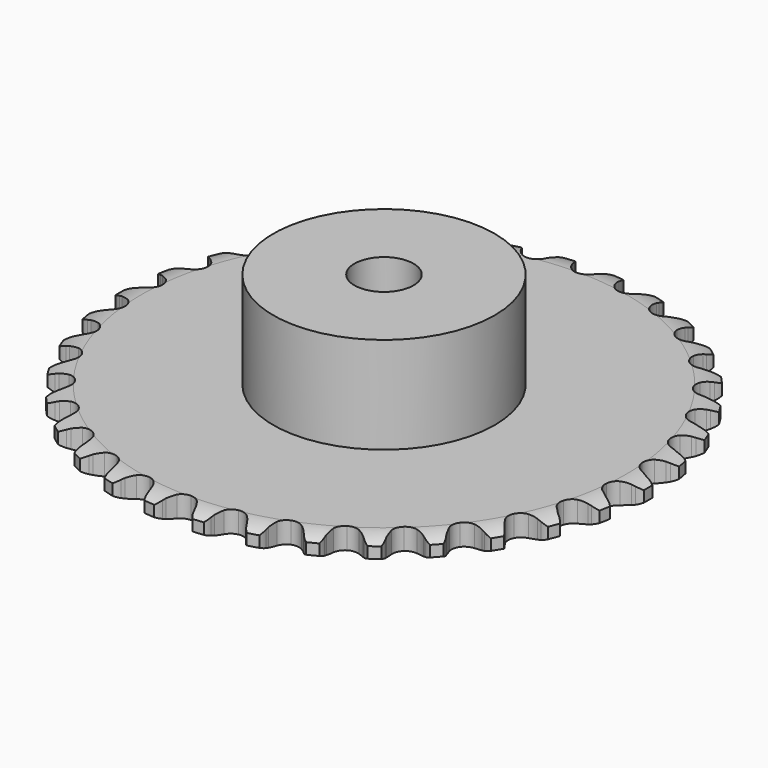
from build123d import *

# Parameters (mm, degrees)
PAD_DEPTH         = 2.9
SKETCH001_R       = 15
PAD001_DEPTH      = 16
SKETCH002_R       = 4
POCKET_DEPTH      = 0.0010001
POCKET_DEPTH_BACK = 16.001


with BuildPart() as part:
    # Sprocket → Pad (new body)
    with BuildSketch(Plane.XY):
        with BuildLine():
            ThreePointArc((-3.3671839727, 36.3377021001), (-2.6066536566, 35.7405925306), (-2.1101586415, 34.9108703484))
            Line((-2.1101586415, 34.9108703484), (-1.9491677306, 34.4782507506))
            ThreePointArc((-1.9491677306, 34.4782507506), (-1.6927630481, 33.9156220248), (-1.3589463526, 33.3951790807))
            ThreePointArc((-1.3589463526, 33.3951790807), (-0.7600232655, 32.8939313207), (0, 32.7141458457))
            ThreePointArc((0, 32.7141458457), (0.7600232655, 32.8939313207), (1.3589463526, 33.3951790807))
            ThreePointArc((1.3589463526, 33.3951790807), (1.6927630481, 33.9156220248), (1.9491677306, 34.4782507506))
            Line((1.9491677306, 34.4782507506), (2.1101586415, 34.9108703484))
            ThreePointArc((2.1101586415, 34.9108703484), (2.6066536566, 35.7405925306), (3.3671839727, 36.3377021001))
            ThreePointArc((3.3671839727, 36.3377021001), (4.0050462193, 35.6110123768), (4.3406264124, 34.7041870719))
            Line((4.3406264124, 34.7041870719), (4.4193825047, 34.2493516427))
            ThreePointArc((4.4193825047, 34.2493516427), (4.5680386531, 33.6491885033), (4.800540345, 33.0762684324))
            ThreePointArc((4.800540345, 33.0762684324), (5.2971615942, 32.4735035397), (6.0112085249, 32.1571253454))
            ThreePointArc((6.0112085249, 32.1571253454), (6.7913264444, 32.1941957225), (7.472155762, 32.5768569584))
            Line((7.472155762, 32.5768569584), (8.2513413965, 33.5330343814))
            ThreePointArc((8.2513413965, 33.5330343814), (8.3649444592, 33.7340358036), (8.4890847737, 33.9287058062))
            ThreePointArc((8.4890847737, 33.9287058062), (9.1295870686, 34.6530696718), (9.9868865063, 35.1002652374))
            ThreePointArc((9.9868865063, 35.1002652374), (10.4803590498, 34.2687419073), (10.6435966399, 33.3156943278))
            Line((10.6435966399, 33.3156943278), (10.6374359692, 32.8541319421))
            ThreePointArc((10.6374359692, 32.8541319421), (10.6732812767, 32.2368722251), (10.7965503987, 31.6309851334))
            ThreePointArc((10.7965503987, 31.6309851334), (11.173957969, 30.9472295433), (11.8177125532, 30.5050325098))
            ThreePointArc((11.8177125532, 30.5050325098), (12.5913591465, 30.3981254017), (13.3309098687, 30.649169044))
            Line((13.3309098687, 30.649169044), (14.2725255276, 31.4458907447))
            ThreePointArc((14.2725255276, 31.4458907447), (14.4211281966, 31.6225952278), (14.5789253055, 31.7911398807))
            ThreePointArc((14.5789253055, 31.7911398807), (15.3416233428, 32.3854780871), (16.2664975979, 32.6675309401))
            ThreePointArc((16.2664975979, 32.6675309401), (16.5987758226, 31.759490533), (16.5841119493, 30.7926755711))
            Line((16.5841119493, 30.7926755711), (16.4932443099, 30.3401041824))
            ThreePointArc((16.4932443099, 30.3401041824), (16.4150581076, 29.7267679271), (16.4248968776, 29.1085465727))
            ThreePointArc((16.4248968776, 29.1085465727), (16.6702386068, 28.3670847619), (17.2217785542, 27.8141273788))
            ThreePointArc((17.2217785542, 27.8141273788), (17.9626082146, 27.5668833789), (18.7356958286, 27.6777604375))
            Line((18.7356958286, 27.6777604375), (19.8076759198, 28.2878950139))
            ThreePointArc((19.8076759198, 28.2878950139), (19.9862177096, 28.4342850986), (20.1722980216, 28.5709648158))
            ThreePointArc((20.1722980216, 28.5709648158), (21.0312190342, 29.0150378883), (21.9921726233, 29.122343057))
            ThreePointArc((21.9921726233, 29.122343057), (22.1519411928, 28.1687077998), (21.9598752168, 27.2210491796))
            Line((21.9598752168, 27.2210491796), (21.7873949972, 26.7928805637))
            ThreePointArc((21.7873949972, 26.7928805637), (21.5978398224, 26.2043542006), (21.4939131929, 25.5948513705))
            ThreePointArc((21.4939131929, 25.5948513705), (21.5988342627, 24.8209329315), (22.0393775419, 24.1760454992))
            ThreePointArc((22.0393775419, 24.1760454992), (22.7221622037, 23.7968842054), (23.502460138, 23.7638188951))
            Line((23.502460138, 23.7638188951), (24.6682996653, 24.1665889461))
            ThreePointArc((24.6682996653, 24.1665889461), (24.8707005493, 24.2776794936), (25.0787273225, 24.3778398112))
            ThreePointArc((25.0787273225, 24.3778398112), (26.0046217856, 24.6565253739), (26.9689305867, 24.5854287096))
            ThreePointArc((26.9689305867, 24.5854287096), (26.9507487741, 23.6186735072), (26.5878212718, 22.7224426063))
            Line((26.5878212718, 22.7224426063), (26.3396020789, 22.333257532))
            ThreePointArc((26.3396020789, 22.333257532), (26.0451330057, 21.7895826206), (25.8309800734, 21.2095542024))
            ThreePointArc((25.8309800734, 21.2095542024), (25.7919075227, 20.4295339995), (26.1064519606, 19.7146773862))
            ThreePointArc((26.1064519606, 19.7146773862), (26.7079402111, 19.2165106816), (27.4688763555, 19.0406290018))
            Line((27.4688763555, 19.0406290018), (28.688874052, 19.2223186762))
            ThreePointArc((28.688874052, 19.2223186762), (28.9082415109, 19.2943266312), (29.131130643, 19.3545567099))
            ThreePointArc((29.131130643, 19.3545567099), (30.0924683311, 19.4583644601), (31.0272939647, 19.2112870744))
            ThreePointArc((31.0272939647, 19.2112870744), (30.8317809297, 18.2643336158), (30.3103509619, 17.4500505026))
            Line((30.3103509619, 17.4500505026), (29.9948456027, 17.1131022007))
            ThreePointArc((29.9948456027, 17.1131022007), (29.6054904223, 16.6327929381), (29.2884039084, 16.101991104))
            ThreePointArc((29.2884039084, 16.101991104), (29.1066683059, 15.3424317897), (29.2845024691, 14.5819495799))
            ThreePointArc((29.2845024691, 14.5819495799), (29.7842113474, 13.9817419341), (30.499872934, 13.6690333245))
            Line((30.499872934, 13.6690333245), (31.7324832415, 13.6234553985))
            ThreePointArc((31.7324832415, 13.6234553985), (31.9613469795, 13.6539286165), (32.1915082485, 13.672177393))
            ThreePointArc((32.1915082485, 13.672177393), (33.1555519596, 13.5975722824), (34.0290600598, 13.1829280992))
            ThreePointArc((34.0290600598, 13.1829280992), (33.6628737643, 12.2880237487), (33.0006980032, 11.5834178581))
            Line((33.0006980032, 11.5834178581), (32.6286506344, 11.310180699))
            ThreePointArc((32.6286506344, 11.310180699), (32.1576683704, 10.9095934409), (31.7484462759, 10.4460940108))
            ThreePointArc((31.7484462759, 10.4460940108), (31.4302364097, 9.7328614666), (31.4653043689, 8.9526509698))
            ThreePointArc((31.4653043689, 8.9526509698), (31.8462168884, 8.2708417343), (32.4922329203, 7.8319551116))
            Line((32.4922329203, 7.8319551116), (33.695480773, 7.5606616868))
            ThreePointArc((33.695480773, 7.5606616868), (33.9260471101, 7.5485624388), (34.15564265, 7.524208473))
            ThreePointArc((34.15564265, 7.524208473), (35.0895630319, 7.273731089), (35.8720073279, 6.7056403189))
            ThreePointArc((35.8720073279, 6.7056403189), (35.3476178071, 5.8932599707), (34.5672458541, 5.3223258112))
            Line((34.5672458541, 5.3223258112), (34.1513261025, 5.1221045586))
            ThreePointArc((34.1513261025, 5.1221045586), (33.614755491, 4.8148808238), (33.1273333835, 4.4344677148))
            ThreePointArc((33.1273333835, 4.4344677148), (32.6834855089, 3.7918502195), (32.5745930668, 3.0184805684))
            ThreePointArc((32.5745930668, 3.0184805684), (32.8237377086, 2.278287939), (33.3781088846, 1.7281690608))
            Line((33.3781088846, 1.7281690608), (34.5110191201, 1.2403987093))
            ThreePointArc((34.5110191201, 1.2403987093), (34.7354363961, 1.1861390207), (34.9566476062, 1.1200116577))
            ThreePointArc((34.9566476062, 1.1200116577), (35.8286411203, 0.7021917074), (36.4933764103, 0))
            ThreePointArc((36.4933764103, 0), (35.8286411203, -0.7021917074), (34.9566476062, -1.1200116577))
            Line((34.9566476062, -1.1200116577), (34.5110191201, -1.2403987093))
            ThreePointArc((34.5110191201, -1.2403987093), (33.9271324298, -1.443796785), (33.3781088846, -1.7281690608))
            ThreePointArc((33.3781088846, -1.7281690608), (32.8237377086, -2.278287939), (32.5745930668, -3.0184805684))
            ThreePointArc((32.5745930668, -3.0184805684), (32.6834855089, -3.7918502195), (33.1273333835, -4.4344677148))
            Line((33.1273333835, -4.4344677148), (34.1513261025, -5.1221045586))
            ThreePointArc((34.1513261025, -5.1221045586), (34.3619520563, -5.2166769391), (34.5672458541, -5.3223258112))
            ThreePointArc((34.5672458541, -5.3223258112), (35.3476178071, -5.8932599707), (35.8720073279, -6.7056403189))
            ThreePointArc((35.8720073279, -6.7056403189), (35.0895630319, -7.273731089), (34.15564265, -7.524208473))
            Line((34.15564265, -7.524208473), (33.695480773, -7.5606616868))
            ThreePointArc((33.695480773, -7.5606616868), (33.0841615648, -7.653307626), (32.4922329203, -7.8319551116))
            ThreePointArc((32.4922329203, -7.8319551116), (31.8462168884, -8.2708417343), (31.4653043689, -8.9526509698))
            ThreePointArc((31.4653043689, -8.9526509698), (31.4302364097, -9.7328614666), (31.7484462759, -10.4460940108))
            Line((31.7484462759, -10.4460940108), (32.6286506344, -11.310180699))
            ThreePointArc((32.6286506344, -11.310180699), (32.8183126518, -11.4418452225), (33.0006980032, -11.5834178581))
            ThreePointArc((33.0006980032, -11.5834178581), (33.6628737643, -12.2880237487), (34.0290600598, -13.1829280992))
            ThreePointArc((34.0290600598, -13.1829280992), (33.1555519596, -13.5975722824), (32.1915082485, -13.672177393))
            Line((32.1915082485, -13.672177393), (31.7324832415, -13.6234553985))
            ThreePointArc((31.7324832415, -13.6234553985), (31.1145492578, -13.6021942549), (30.499872934, -13.6690333245))
            ThreePointArc((30.499872934, -13.6690333245), (29.7842113474, -13.9817419341), (29.2845024691, -14.5819495799))
            ThreePointArc((29.2845024691, -14.5819495799), (29.1066683059, -15.3424317897), (29.2884039084, -16.101991104))
            Line((29.2884039084, -16.101991104), (29.9948456027, -17.1131022007))
            ThreePointArc((29.9948456027, -17.1131022007), (30.1570849712, -17.2773751898), (30.3103509619, -17.4500505026))
            ThreePointArc((30.3103509619, -17.4500505026), (30.8317809297, -18.2643336158), (31.0272939647, -19.2112870744))
            ThreePointArc((31.0272939647, -19.2112870744), (30.0924683311, -19.4583644601), (29.131130643, -19.3545567099))
            Line((29.131130643, -19.3545567099), (28.688874052, -19.2223186762))
            ThreePointArc((28.688874052, -19.2223186762), (28.0853682937, -19.0878744724), (27.4688763555, -19.0406290018))
            ThreePointArc((27.4688763555, -19.0406290018), (26.7079402111, -19.2165106816), (26.1064519606, -19.7146773862))
            ThreePointArc((26.1064519606, -19.7146773862), (25.7919075227, -20.4295339995), (25.8309800734, -21.2095542024))
            Line((25.8309800734, -21.2095542024), (26.3396020789, -22.333257532))
            ThreePointArc((26.3396020789, -22.333257532), (26.4688939313, -22.5245448669), (26.5878212718, -22.7224426063))
            ThreePointArc((26.5878212718, -22.7224426063), (26.9507487741, -23.6186735072), (26.9689305867, -24.5854287096))
            ThreePointArc((26.9689305867, -24.5854287096), (26.0046217856, -24.6565253739), (25.0787273225, -24.3778398112))
            Line((25.0787273225, -24.3778398112), (24.6682996653, -24.1665889461))
            ThreePointArc((24.6682996653, -24.1665889461), (24.099773797, -23.9235400182), (23.502460138, -23.7638188951))
            ThreePointArc((23.502460138, -23.7638188951), (22.7221622037, -23.7968842054), (22.0393775419, -24.1760454992))
            ThreePointArc((22.0393775419, -24.1760454992), (21.5988342627, -24.8209329315), (21.4939131929, -25.5948513705))
            Line((21.4939131929, -25.5948513705), (21.7873949972, -26.7928805637))
            ThreePointArc((21.7873949972, -26.7928805637), (21.8793364545, -27.0046681838), (21.9598752168, -27.2210491796))
            ThreePointArc((21.9598752168, -27.2210491796), (22.1519411928, -28.1687077998), (21.9921726233, -29.122343057))
            ThreePointArc((21.9921726233, -29.122343057), (21.0312190342, -29.0150378883), (20.1722980216, -28.5709648158))
            Line((20.1722980216, -28.5709648158), (19.8076759198, -28.2878950139))
            ThreePointArc((19.8076759198, -28.2878950139), (19.2934904081, -27.9445181018), (18.7356958286, -27.6777604375))
            ThreePointArc((18.7356958286, -27.6777604375), (17.9626082146, -27.5668833789), (17.2217785542, -27.8141273788))
            ThreePointArc((17.2217785542, -27.8141273788), (16.6702386068, -28.3670847619), (16.4248968776, -29.1085465727))
            Line((16.4248968776, -29.1085465727), (16.4932443099, -30.3401041824))
            ThreePointArc((16.4932443099, -30.3401041824), (16.5447044161, -30.5651799142), (16.5841119493, -30.7926755711))
            ThreePointArc((16.5841119493, -30.7926755711), (16.5987758226, -31.759490533), (16.2664975979, -32.6675309401))
            ThreePointArc((16.2664975979, -32.6675309401), (15.3416233428, -32.3854780871), (14.5789253055, -31.7911398807))
            Line((14.5789253055, -31.7911398807), (14.2725255276, -31.4458907447))
            ThreePointArc((14.2725255276, -31.4458907447), (13.8301903433, -31.0138791371), (13.3309098687, -30.649169044))
            ThreePointArc((13.3309098687, -30.649169044), (12.5913591465, -30.3981254017), (11.8177125532, -30.5050325098))
            ThreePointArc((11.8177125532, -30.5050325098), (11.173957969, -30.9472295433), (10.7965503987, -31.6309851334))
            Line((10.7965503987, -31.6309851334), (10.6374359692, -32.8541319421))
            ThreePointArc((10.6374359692, -32.8541319421), (10.6466623121, -33.0848311016), (10.6435966399, -33.3156943278))
            ThreePointArc((10.6435966399, -33.3156943278), (10.4803590498, -34.2687419073), (9.9868865063, -35.1002652374))
            ThreePointArc((9.9868865063, -35.1002652374), (9.1295870686, -34.6530696718), (8.4890847737, -33.9287058062))
            Line((8.4890847737, -33.9287058062), (8.2513413965, -33.5330343814))
            ThreePointArc((8.2513413965, -33.5330343814), (7.8959197339, -33.0270997156), (7.472155762, -32.5768569584))
            ThreePointArc((7.472155762, -32.5768569584), (6.7913264444, -32.1941957225), (6.0112085249, -32.1571253454))
            ThreePointArc((6.0112085249, -32.1571253454), (5.2971615942, -32.4735035397), (4.800540345, -33.0762684324))
            Line((4.800540345, -33.0762684324), (4.4193825047, -34.2493516427))
            ThreePointArc((4.4193825047, -34.2493516427), (4.3860608922, -34.4778180466), (4.3406264124, -34.7041870719))
            ThreePointArc((4.3406264124, -34.7041870719), (4.0050462193, -35.6110123768), (3.3671839727, -36.3377021001))
            ThreePointArc((3.3671839727, -36.3377021001), (2.6066536566, -35.7405925306), (2.1101586415, -34.9108703484))
            Line((2.1101586415, -34.9108703484), (1.9491677306, -34.4782507506))
            ThreePointArc((1.9491677306, -34.4782507506), (1.6927630481, -33.9156220248), (1.3589463526, -33.3951790807))
            ThreePointArc((1.3589463526, -33.3951790807), (0.7600232655, -32.8939313207), (0, -32.7141458457))
            ThreePointArc((0, -32.7141458457), (-0.7600232655, -32.8939313207), (-1.3589463526, -33.3951790807))
            Line((-1.3589463526, -33.3951790807), (-1.9491677306, -34.4782507506))
            ThreePointArc((-1.9491677306, -34.4782507506), (-2.0239025708, -34.6967042497), (-2.1101586415, -34.9108703484))
            ThreePointArc((-2.1101586415, -34.9108703484), (-2.6066536566, -35.7405925306), (-3.3671839727, -36.3377021001))
            ThreePointArc((-3.3671839727, -36.3377021001), (-4.0050462193, -35.6110123768), (-4.3406264124, -34.7041870719))
            Line((-4.3406264124, -34.7041870719), (-4.4193825047, -34.2493516427))
            ThreePointArc((-4.4193825047, -34.2493516427), (-4.5680386531, -33.6491885033), (-4.800540345, -33.0762684324))
            ThreePointArc((-4.800540345, -33.0762684324), (-5.2971615942, -32.4735035397), (-6.0112085249, -32.1571253454))
            ThreePointArc((-6.0112085249, -32.1571253454), (-6.7913264444, -32.1941957225), (-7.472155762, -32.5768569584))
            Line((-7.472155762, -32.5768569584), (-8.2513413965, -33.5330343814))
            ThreePointArc((-8.2513413965, -33.5330343814), (-8.3649444592, -33.7340358036), (-8.4890847737, -33.9287058062))
            ThreePointArc((-8.4890847737, -33.9287058062), (-9.1295870686, -34.6530696718), (-9.9868865063, -35.1002652374))
            ThreePointArc((-9.9868865063, -35.1002652374), (-10.4803590498, -34.2687419073), (-10.6435966399, -33.3156943278))
            Line((-10.6435966399, -33.3156943278), (-10.6374359692, -32.8541319421))
            ThreePointArc((-10.6374359692, -32.8541319421), (-10.6732812767, -32.2368722251), (-10.7965503987, -31.6309851334))
            ThreePointArc((-10.7965503987, -31.6309851334), (-11.173957969, -30.9472295433), (-11.8177125532, -30.5050325098))
            ThreePointArc((-11.8177125532, -30.5050325098), (-12.5913591465, -30.3981254017), (-13.3309098687, -30.649169044))
            Line((-13.3309098687, -30.649169044), (-14.2725255276, -31.4458907447))
            ThreePointArc((-14.2725255276, -31.4458907447), (-14.4211281966, -31.6225952278), (-14.5789253055, -31.7911398807))
            ThreePointArc((-14.5789253055, -31.7911398807), (-15.3416233428, -32.3854780871), (-16.2664975979, -32.6675309401))
            ThreePointArc((-16.2664975979, -32.6675309401), (-16.5987758226, -31.759490533), (-16.5841119493, -30.7926755711))
            Line((-16.5841119493, -30.7926755711), (-16.4932443099, -30.3401041824))
            ThreePointArc((-16.4932443099, -30.3401041824), (-16.4150581076, -29.7267679271), (-16.4248968776, -29.1085465727))
            ThreePointArc((-16.4248968776, -29.1085465727), (-16.6702386068, -28.3670847619), (-17.2217785542, -27.8141273788))
            ThreePointArc((-17.2217785542, -27.8141273788), (-17.9626082146, -27.5668833789), (-18.7356958286, -27.6777604375))
            Line((-18.7356958286, -27.6777604375), (-19.8076759198, -28.2878950139))
            ThreePointArc((-19.8076759198, -28.2878950139), (-19.9862177096, -28.4342850986), (-20.1722980216, -28.5709648158))
            ThreePointArc((-20.1722980216, -28.5709648158), (-21.0312190342, -29.0150378883), (-21.9921726233, -29.122343057))
            ThreePointArc((-21.9921726233, -29.122343057), (-22.1519411928, -28.1687077998), (-21.9598752168, -27.2210491796))
            Line((-21.9598752168, -27.2210491796), (-21.7873949972, -26.7928805637))
            ThreePointArc((-21.7873949972, -26.7928805637), (-21.5978398224, -26.2043542006), (-21.4939131929, -25.5948513705))
            ThreePointArc((-21.4939131929, -25.5948513705), (-21.5988342627, -24.8209329315), (-22.0393775419, -24.1760454992))
            ThreePointArc((-22.0393775419, -24.1760454992), (-22.7221622037, -23.7968842054), (-23.502460138, -23.7638188951))
            Line((-23.502460138, -23.7638188951), (-24.6682996653, -24.1665889461))
            ThreePointArc((-24.6682996653, -24.1665889461), (-24.8707005493, -24.2776794936), (-25.0787273225, -24.3778398112))
            ThreePointArc((-25.0787273225, -24.3778398112), (-26.0046217856, -24.6565253739), (-26.9689305867, -24.5854287096))
            ThreePointArc((-26.9689305867, -24.5854287096), (-26.9507487741, -23.6186735072), (-26.5878212718, -22.7224426063))
            Line((-26.5878212718, -22.7224426063), (-26.3396020789, -22.333257532))
            ThreePointArc((-26.3396020789, -22.333257532), (-26.0451330057, -21.7895826206), (-25.8309800734, -21.2095542024))
            ThreePointArc((-25.8309800734, -21.2095542024), (-25.7919075227, -20.4295339995), (-26.1064519606, -19.7146773862))
            ThreePointArc((-26.1064519606, -19.7146773862), (-26.7079402111, -19.2165106816), (-27.4688763555, -19.0406290018))
            Line((-27.4688763555, -19.0406290018), (-28.688874052, -19.2223186762))
            ThreePointArc((-28.688874052, -19.2223186762), (-28.9082415109, -19.2943266312), (-29.131130643, -19.3545567099))
            ThreePointArc((-29.131130643, -19.3545567099), (-30.0924683311, -19.4583644601), (-31.0272939647, -19.2112870744))
            ThreePointArc((-31.0272939647, -19.2112870744), (-30.8317809297, -18.2643336158), (-30.3103509619, -17.4500505026))
            Line((-30.3103509619, -17.4500505026), (-29.9948456027, -17.1131022007))
            ThreePointArc((-29.9948456027, -17.1131022007), (-29.6054904223, -16.6327929381), (-29.2884039084, -16.101991104))
            ThreePointArc((-29.2884039084, -16.101991104), (-29.1066683059, -15.3424317897), (-29.2845024691, -14.5819495799))
            ThreePointArc((-29.2845024691, -14.5819495799), (-29.7842113474, -13.9817419341), (-30.499872934, -13.6690333245))
            Line((-30.499872934, -13.6690333245), (-31.7324832415, -13.6234553985))
            ThreePointArc((-31.7324832415, -13.6234553985), (-31.9613469795, -13.6539286165), (-32.1915082485, -13.672177393))
            ThreePointArc((-32.1915082485, -13.672177393), (-33.1555519596, -13.5975722824), (-34.0290600598, -13.1829280992))
            ThreePointArc((-34.0290600598, -13.1829280992), (-33.6628737643, -12.2880237487), (-33.0006980032, -11.5834178581))
            Line((-33.0006980032, -11.5834178581), (-32.6286506344, -11.310180699))
            ThreePointArc((-32.6286506344, -11.310180699), (-32.1576683704, -10.9095934409), (-31.7484462759, -10.4460940108))
            ThreePointArc((-31.7484462759, -10.4460940108), (-31.4302364097, -9.7328614666), (-31.4653043689, -8.9526509698))
            ThreePointArc((-31.4653043689, -8.9526509698), (-31.8462168884, -8.2708417343), (-32.4922329203, -7.8319551116))
            Line((-32.4922329203, -7.8319551116), (-33.695480773, -7.5606616868))
            ThreePointArc((-33.695480773, -7.5606616868), (-33.9260471101, -7.5485624388), (-34.15564265, -7.524208473))
            ThreePointArc((-34.15564265, -7.524208473), (-35.0895630319, -7.273731089), (-35.8720073279, -6.7056403189))
            ThreePointArc((-35.8720073279, -6.7056403189), (-35.3476178071, -5.8932599707), (-34.5672458541, -5.3223258112))
            Line((-34.5672458541, -5.3223258112), (-34.1513261025, -5.1221045586))
            ThreePointArc((-34.1513261025, -5.1221045586), (-33.614755491, -4.8148808238), (-33.1273333835, -4.4344677148))
            ThreePointArc((-33.1273333835, -4.4344677148), (-32.6834855089, -3.7918502195), (-32.5745930668, -3.0184805684))
            ThreePointArc((-32.5745930668, -3.0184805684), (-32.8237377086, -2.278287939), (-33.3781088846, -1.7281690608))
            Line((-33.3781088846, -1.7281690608), (-34.5110191201, -1.2403987093))
            ThreePointArc((-34.5110191201, -1.2403987093), (-34.7354363961, -1.1861390207), (-34.9566476062, -1.1200116577))
            ThreePointArc((-34.9566476062, -1.1200116577), (-35.8286411203, -0.7021917074), (-36.4933764103, 0))
            ThreePointArc((-36.4933764103, 0), (-35.8286411203, 0.7021917074), (-34.9566476062, 1.1200116577))
            Line((-34.9566476062, 1.1200116577), (-34.5110191201, 1.2403987093))
            ThreePointArc((-34.5110191201, 1.2403987093), (-33.9271324298, 1.443796785), (-33.3781088846, 1.7281690608))
            ThreePointArc((-33.3781088846, 1.7281690608), (-32.8237377086, 2.278287939), (-32.5745930668, 3.0184805684))
            ThreePointArc((-32.5745930668, 3.0184805684), (-32.6834855089, 3.7918502195), (-33.1273333835, 4.4344677148))
            Line((-33.1273333835, 4.4344677148), (-34.1513261025, 5.1221045586))
            ThreePointArc((-34.1513261025, 5.1221045586), (-34.3619520563, 5.2166769391), (-34.5672458541, 5.3223258112))
            ThreePointArc((-34.5672458541, 5.3223258112), (-35.3476178071, 5.8932599707), (-35.8720073279, 6.7056403189))
            ThreePointArc((-35.8720073279, 6.7056403189), (-35.0895630319, 7.273731089), (-34.15564265, 7.524208473))
            Line((-34.15564265, 7.524208473), (-33.695480773, 7.5606616868))
            ThreePointArc((-33.695480773, 7.5606616868), (-33.0841615648, 7.653307626), (-32.4922329203, 7.8319551116))
            ThreePointArc((-32.4922329203, 7.8319551116), (-31.8462168884, 8.2708417343), (-31.4653043689, 8.9526509698))
            ThreePointArc((-31.4653043689, 8.9526509698), (-31.4302364097, 9.7328614666), (-31.7484462759, 10.4460940108))
            Line((-31.7484462759, 10.4460940108), (-32.6286506344, 11.310180699))
            ThreePointArc((-32.6286506344, 11.310180699), (-32.8183126518, 11.4418452225), (-33.0006980032, 11.5834178581))
            ThreePointArc((-33.0006980032, 11.5834178581), (-33.6628737643, 12.2880237487), (-34.0290600598, 13.1829280992))
            ThreePointArc((-34.0290600598, 13.1829280992), (-33.1555519596, 13.5975722824), (-32.1915082485, 13.672177393))
            Line((-32.1915082485, 13.672177393), (-31.7324832415, 13.6234553985))
            ThreePointArc((-31.7324832415, 13.6234553985), (-31.1145492578, 13.6021942549), (-30.499872934, 13.6690333245))
            ThreePointArc((-30.499872934, 13.6690333245), (-29.7842113474, 13.9817419341), (-29.2845024691, 14.5819495799))
            ThreePointArc((-29.2845024691, 14.5819495799), (-29.1066683059, 15.3424317897), (-29.2884039084, 16.101991104))
            Line((-29.2884039084, 16.101991104), (-29.9948456027, 17.1131022007))
            ThreePointArc((-29.9948456027, 17.1131022007), (-30.1570849712, 17.2773751898), (-30.3103509619, 17.4500505026))
            ThreePointArc((-30.3103509619, 17.4500505026), (-30.8317809297, 18.2643336158), (-31.0272939647, 19.2112870744))
            ThreePointArc((-31.0272939647, 19.2112870744), (-30.0924683311, 19.4583644601), (-29.131130643, 19.3545567099))
            Line((-29.131130643, 19.3545567099), (-28.688874052, 19.2223186762))
            ThreePointArc((-28.688874052, 19.2223186762), (-28.0853682937, 19.0878744724), (-27.4688763555, 19.0406290018))
            ThreePointArc((-27.4688763555, 19.0406290018), (-26.7079402111, 19.2165106816), (-26.1064519606, 19.7146773862))
            ThreePointArc((-26.1064519606, 19.7146773862), (-25.7919075227, 20.4295339995), (-25.8309800734, 21.2095542024))
            Line((-25.8309800734, 21.2095542024), (-26.3396020789, 22.333257532))
            ThreePointArc((-26.3396020789, 22.333257532), (-26.4688939313, 22.5245448669), (-26.5878212718, 22.7224426063))
            ThreePointArc((-26.5878212718, 22.7224426063), (-26.9507487741, 23.6186735072), (-26.9689305867, 24.5854287096))
            ThreePointArc((-26.9689305867, 24.5854287096), (-26.0046217856, 24.6565253739), (-25.0787273225, 24.3778398112))
            Line((-25.0787273225, 24.3778398112), (-24.6682996653, 24.1665889461))
            ThreePointArc((-24.6682996653, 24.1665889461), (-24.099773797, 23.9235400182), (-23.502460138, 23.7638188951))
            ThreePointArc((-23.502460138, 23.7638188951), (-22.7221622037, 23.7968842054), (-22.0393775419, 24.1760454992))
            ThreePointArc((-22.0393775419, 24.1760454992), (-21.5988342627, 24.8209329315), (-21.4939131929, 25.5948513705))
            Line((-21.4939131929, 25.5948513705), (-21.7873949972, 26.7928805637))
            ThreePointArc((-21.7873949972, 26.7928805637), (-21.8793364545, 27.0046681838), (-21.9598752168, 27.2210491796))
            ThreePointArc((-21.9598752168, 27.2210491796), (-22.1519411928, 28.1687077998), (-21.9921726233, 29.122343057))
            ThreePointArc((-21.9921726233, 29.122343057), (-21.0312190342, 29.0150378883), (-20.1722980216, 28.5709648158))
            Line((-20.1722980216, 28.5709648158), (-19.8076759198, 28.2878950139))
            ThreePointArc((-19.8076759198, 28.2878950139), (-19.2934904081, 27.9445181018), (-18.7356958286, 27.6777604375))
            ThreePointArc((-18.7356958286, 27.6777604375), (-17.9626082146, 27.5668833789), (-17.2217785542, 27.8141273788))
            ThreePointArc((-17.2217785542, 27.8141273788), (-16.6702386068, 28.3670847619), (-16.4248968776, 29.1085465727))
            Line((-16.4248968776, 29.1085465727), (-16.4932443099, 30.3401041824))
            ThreePointArc((-16.4932443099, 30.3401041824), (-16.5447044161, 30.5651799142), (-16.5841119493, 30.7926755711))
            ThreePointArc((-16.5841119493, 30.7926755711), (-16.5987758226, 31.759490533), (-16.2664975979, 32.6675309401))
            ThreePointArc((-16.2664975979, 32.6675309401), (-15.3416233428, 32.3854780871), (-14.5789253055, 31.7911398807))
            Line((-14.5789253055, 31.7911398807), (-14.2725255276, 31.4458907447))
            ThreePointArc((-14.2725255276, 31.4458907447), (-13.8301903433, 31.0138791371), (-13.3309098687, 30.649169044))
            ThreePointArc((-13.3309098687, 30.649169044), (-12.5913591465, 30.3981254017), (-11.8177125532, 30.5050325098))
            ThreePointArc((-11.8177125532, 30.5050325098), (-11.173957969, 30.9472295433), (-10.7965503987, 31.6309851334))
            Line((-10.7965503987, 31.6309851334), (-10.6374359692, 32.8541319421))
            ThreePointArc((-10.6374359692, 32.8541319421), (-10.6466623121, 33.0848311016), (-10.6435966399, 33.3156943278))
            ThreePointArc((-10.6435966399, 33.3156943278), (-10.4803590498, 34.2687419073), (-9.9868865063, 35.1002652374))
            ThreePointArc((-9.9868865063, 35.1002652374), (-9.1295870686, 34.6530696718), (-8.4890847737, 33.9287058062))
            Line((-8.4890847737, 33.9287058062), (-8.2513413965, 33.5330343814))
            ThreePointArc((-8.2513413965, 33.5330343814), (-7.8959197339, 33.0270997156), (-7.472155762, 32.5768569584))
            ThreePointArc((-7.472155762, 32.5768569584), (-6.7913264444, 32.1941957225), (-6.0112085249, 32.1571253454))
            ThreePointArc((-6.0112085249, 32.1571253454), (-5.2971615942, 32.4735035397), (-4.800540345, 33.0762684324))
            Line((-4.800540345, 33.0762684324), (-4.4193825047, 34.2493516427))
            ThreePointArc((-4.4193825047, 34.2493516427), (-4.3860608922, 34.4778180466), (-4.3406264124, 34.7041870719))
            ThreePointArc((-4.3406264124, 34.7041870719), (-4.0050462193, 35.6110123768), (-3.3671839727, 36.3377021001))
        make_face()
    extrude(amount=PAD_DEPTH)

    # Sketch → Groove (revolve, cut)
    with BuildSketch(Plane.XZ):
        with BuildLine():
            Line((32.8896735578, 0), (35.8, 0))
            Line((38.7103264422, 0), (35.8, 0))
            Line((38.7103264422, 2.9), (38.7103264422, 0))
            Line((35.8, 2.9), (38.7103264422, 2.9))
            Line((32.8896735578, 2.9), (35.8, 2.9))
            ThreePointArc((35.8, 2.2), (34.3863365125, 2.7225396744), (32.8896735578, 2.9))
            Line((35.8, 0.7), (35.8, 2.2))
            ThreePointArc((32.8896735578, 0), (34.3863365125, 0.1774603256), (35.8, 0.7))
        make_face()
    revolve(axis=Axis((0, 0, 0), (0, 0, 1)), mode=Mode.SUBTRACT)

    # Sketch001 → Pad001 (join)
    with BuildSketch(Plane.XY):
        Circle(SKETCH001_R)
    extrude(amount=PAD001_DEPTH)

    # Sketch002 → Pocket (cut, two sides)
    with BuildSketch(Plane.XY) as pocket_sk:
        Circle(SKETCH002_R)
    extrude(amount=-POCKET_DEPTH, mode=Mode.SUBTRACT)
    extrude(pocket_sk.sketch, amount=POCKET_DEPTH_BACK, mode=Mode.SUBTRACT)


solid = part.part
